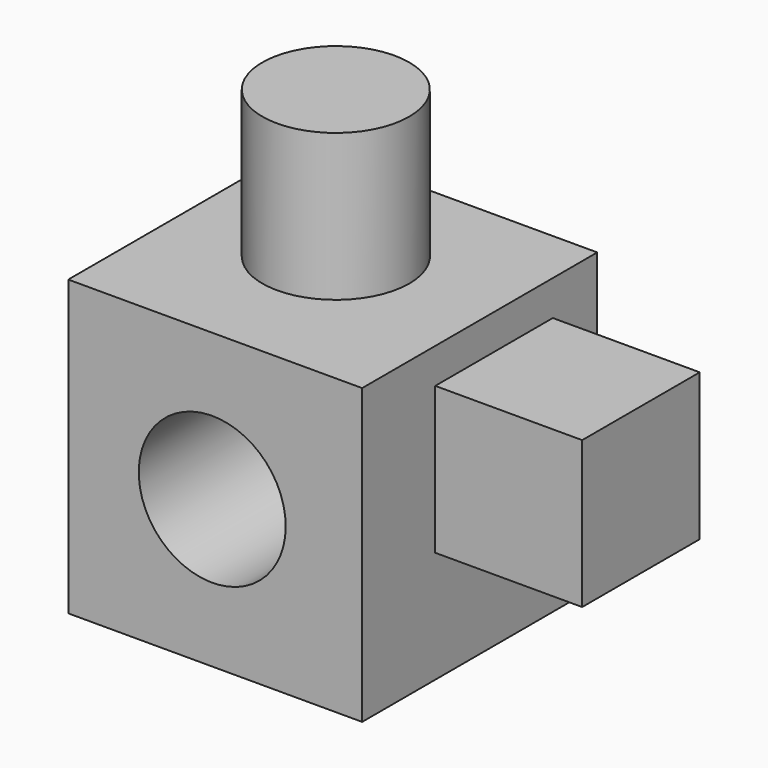
from build123d import *

# Parameters (mm, degrees)
F0_W     = 50.8
F0_H     = 50.8
F1_DEPTH = 50.8
F2_R     = 12.7
F3_DEPTH = 50.8
F4_W     = 25.4
F4_H     = 25.4
F5_DEPTH = 25.4
F6_R     = 12.7
F7_DEPTH = 25.4


with BuildPart() as f1:
    # F0 (on Front) → F1 (new body)
    with BuildSketch(Plane.XZ):
        with Locations((-25.4, 25.4)):
            Rectangle(F0_W, F0_H)
    extrude(amount=F1_DEPTH)

    # F2 (on face) → F3 (cut)
    with BuildSketch(Plane.XZ.offset(50.8)):
        with Locations((-25.91233, 25.456434)):
            Circle(F2_R)
    extrude(amount=-F3_DEPTH, mode=Mode.SUBTRACT)

    # F4 (on face) → F5 (join)
    with BuildSketch(Plane.YZ):
        with Locations((-22.304374, 32.019305)):
            Rectangle(F4_W, F4_H)
    extrude(amount=F5_DEPTH)

    # F6 (on face) → F7 (join)
    with BuildSketch(Plane.XY.offset(50.8)):
        with Locations((-26.821535, -22.958707)):
            Circle(F6_R)
    extrude(amount=F7_DEPTH)


solid = f1.part
